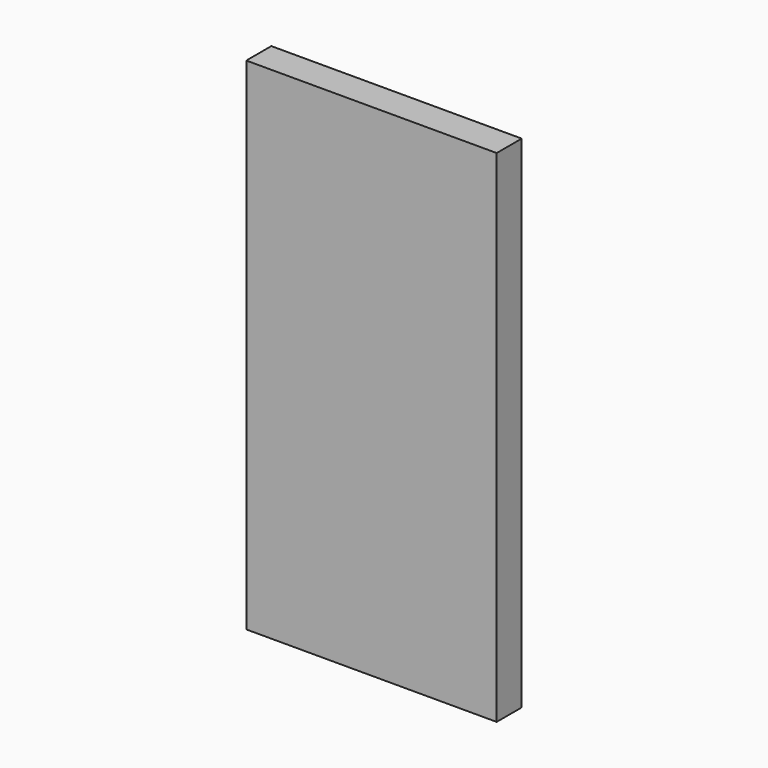
from build123d import *

# Parameters (mm, degrees)
F0_W     = 3.81
F0_H     = 19.05
F1_DEPTH = 31.75
F2_W     = 50.8
F2_H     = 101.6
F2_W_2   = 3.81
F2_H_2   = 31.75
F3_DEPTH = 6.35


with BuildPart() as f1:
    # F0 (on Top) → F1 (new body)
    with BuildSketch(Plane.XY):
        with Locations((1.905, 9.525)):
            Rectangle(F0_W, F0_H)
    extrude(amount=F1_DEPTH)

    # F2 (on face) → F3 (join)
    with BuildSketch(Plane.XZ):
        with Locations((22.225, 15.875)):
            Rectangle(F2_W, F2_H)
        with Locations((1.905, 15.875)):
            Rectangle(F2_W_2, F2_H_2, mode=Mode.SUBTRACT)
        with Locations((1.905, 15.875)):
            Rectangle(F2_W_2, F2_H_2)
    extrude(amount=F3_DEPTH)


solid = f1.part
